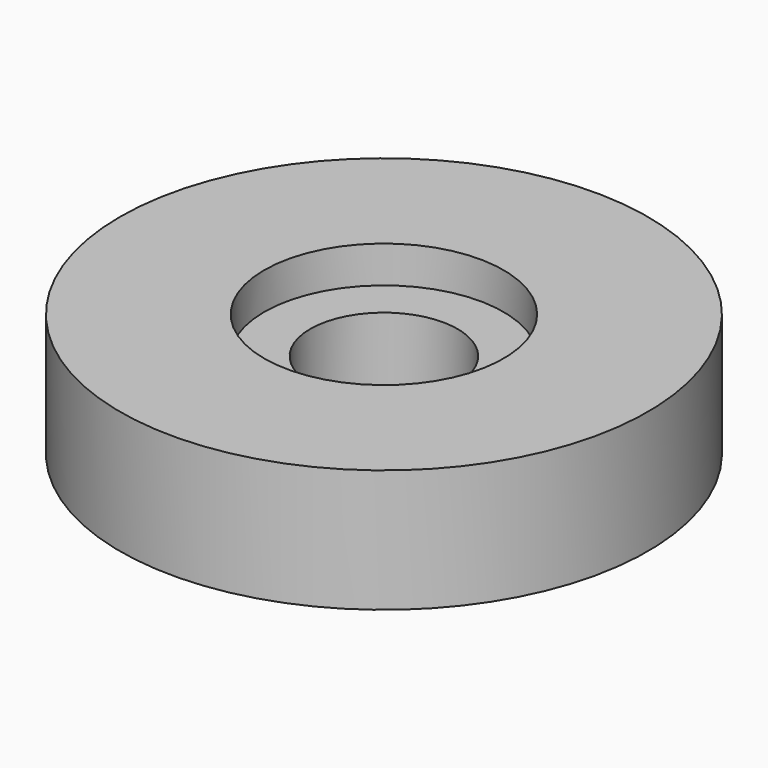
from build123d import *

# Parameters (mm, degrees)
CYLINDER005_R          = 6
CYLINDER005_DEPTH      = 20
CYLINDER007_R          = 9.75
CYLINDER007_DEPTH      = 6
CYLINDER003_R          = 21.5
CYLINDER003_DEPTH      = 10
CUT003_PLACEMENT_ANGLE = 180


with BuildPart() as cylinder005:
    # Cylinder005 → Cylinder005 (new body)
    with BuildSketch(Plane.XY):
        Circle(CYLINDER005_R)
    extrude(amount=CYLINDER005_DEPTH)


with BuildPart() as cylinder007:
    # Cylinder007 → Cylinder007 (new body)
    with BuildSketch(Plane.XY):
        Circle(CYLINDER007_R)
    extrude(amount=CYLINDER007_DEPTH)


with BuildPart() as large_bearing_ring:
    # Cylinder003 → Cylinder003 (new body)
    with BuildSketch(Plane.XY.offset(3)):
        Circle(CYLINDER003_R)
    extrude(amount=CYLINDER003_DEPTH)

    # Cut002: cut Cylinder007
    add(cylinder007.part, mode=Mode.SUBTRACT)

    # Cut003: cut Cylinder005
    add(cylinder005.part, mode=Mode.SUBTRACT)


with BuildPart() as large_bearing_ring_1:
    # Cut003 placement: moved
    add(large_bearing_ring.part.moved(Location((0, 57, 13))).rotate(Axis((0, 57, 13), (0, 1, 0)), CUT003_PLACEMENT_ANGLE))


solid = large_bearing_ring_1.part
